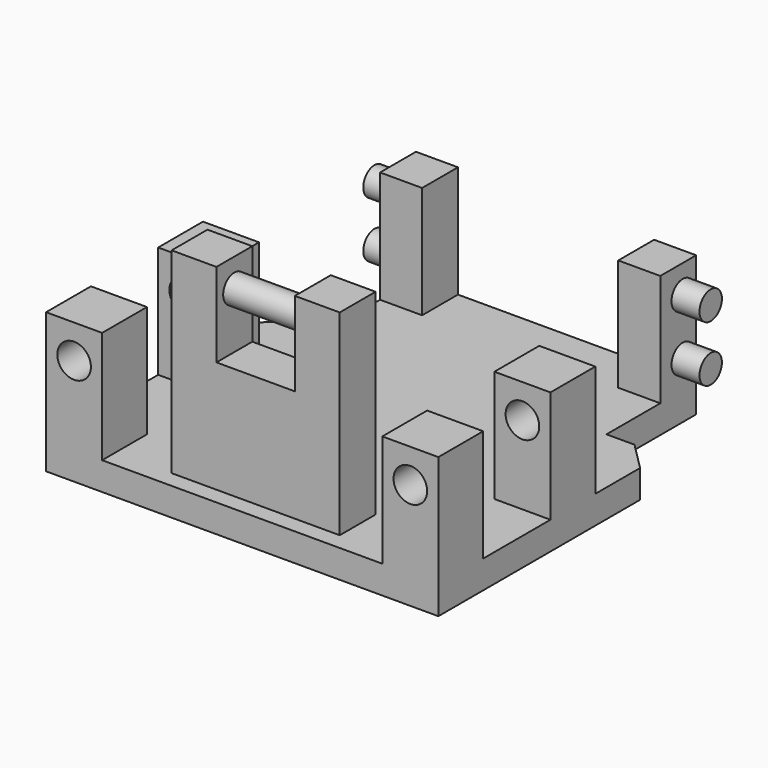
from build123d import *

# Parameters (mm, degrees)
F0_W      = 50
F0_H      = 20
F1_DEPTH  = 8
F2_R      = 2.5
F3_DEPTH  = 5
F4_R      = 2.5
F5_DEPTH  = 5
F6_W      = 35
F6_H      = 30
F7_DEPTH  = 25
F9_DEPTH  = 5
F10_W     = 8
F10_H     = 8
F11_DEPTH = 35
F12_R     = 2.5
F13_DEPTH = 14
F14_W     = 10
F14_H     = 10
F15_DEPTH = 20
F16_R     = 3
F17_DEPTH = 50
F18_SIZE  = 5
F19_SIZE  = 5
F20_W     = 14
F20_H     = 8
F21_DEPTH = 20


with BuildPart() as f1:
    # F0 (on Front) → F1 (new body)
    with BuildSketch(Plane.XZ):
        Rectangle(F0_W, F0_H)
    extrude(amount=F1_DEPTH)

    # F2 (on face) → F3 (join)
    with BuildSketch(Plane(origin=(-25, 0, 0), x_dir=(0, -1, 0), z_dir=(-1, 0, 0))):
        with Locations((3, 5)):
            Circle(F2_R)
        with Locations((3, -5)):
            Circle(F2_R)
    extrude(amount=F3_DEPTH)

    # F4 (on face) → F5 (join)
    with BuildSketch(Plane.YZ.offset(25)):
        with Locations((-3, 5)):
            Circle(F4_R)
        with Locations((-3, -5)):
            Circle(F4_R)
    extrude(amount=F5_DEPTH)

    # F6 (on face) → F7 (cut)
    with BuildSketch(Plane.XZ.offset(8)):
        with Locations((0, 5)):
            Rectangle(F6_W, F6_H)
    extrude(amount=-F7_DEPTH, mode=Mode.SUBTRACT)

    # F8 (on face) → F9 (join)
    with BuildSketch(Plane(origin=(0, 0, -10), x_dir=(1, 0, 0), z_dir=(0, 0, -1))):
        Polygon((-25, 20), (-25, 0), (25, 0), (25, 20), (35, 20), (35, 70), (-35, 70), (-35, 20), align=None)
    extrude(amount=F9_DEPTH)

    # F10 (on face) → F11 (join)
    with BuildSketch(Plane.XY.offset(-10)):
        with Locations((-11, -63)):
            Rectangle(F10_W, F10_H)
        with Locations((11, -63)):
            Rectangle(F10_W, F10_H)
    extrude(amount=F11_DEPTH)

    # F12 (on face) → F13 (join, through all)
    with BuildSketch(Plane(origin=(7, 0, 0), x_dir=(0, -1, 0), z_dir=(-1, 0, 0))):
        with Locations((63, 20)):
            Circle(F12_R)
    extrude(amount=F13_DEPTH)

    # F14 (on face) → F15 (join)
    with BuildSketch(Plane.XY.offset(-10)):
        with Locations((-30, -65)):
            Rectangle(F14_W, F14_H)
        with Locations((30, -65)):
            Rectangle(F14_W, F14_H)
        with Locations((30, -40)):
            Rectangle(F14_W, F14_H)
        with Locations((-30, -40)):
            Rectangle(F14_W, F14_H)
    extrude(amount=F15_DEPTH)

    # F16 (on face) → F17 (cut)
    with BuildSketch(Plane.XZ.offset(70)):
        with Locations((30, 4)):
            Circle(F16_R)
        with Locations((-30, 4)):
            Circle(F16_R)
    extrude(amount=-F17_DEPTH, mode=Mode.SUBTRACT)

    # F18
    f18_edges = [f1.edges().sort_by_distance(p)[0] for p in [
        (-35, -20, -12.5),
    ]]
    chamfer(f18_edges, length=F18_SIZE)

    # F19
    f19_edges = [f1.edges().sort_by_distance(p)[0] for p in [
        (35, -20, -12.5),
    ]]
    chamfer(f19_edges, length=F19_SIZE)

    # F20 (on face) → F21 (join)
    with BuildSketch(Plane.XY.offset(-10)):
        with Locations((0, -63)):
            Rectangle(F20_W, F20_H)
    extrude(amount=F21_DEPTH)


solid = f1.part
